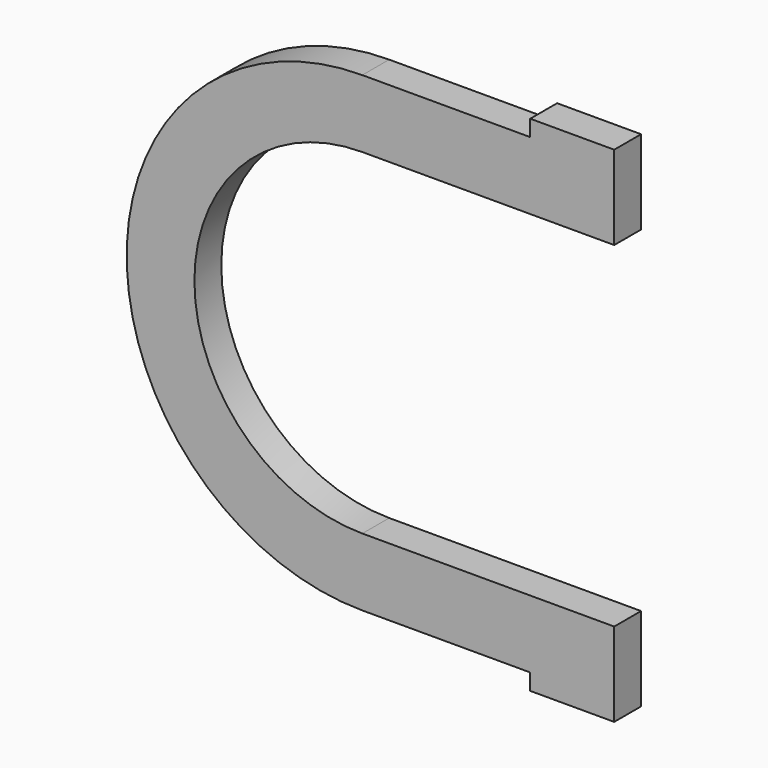
from build123d import *

# Parameters (mm, degrees)
F1_DEPTH = 25.4


with BuildPart() as f1:
    # F0 (on Front) → F1 (new body)
    with BuildSketch(Plane.XZ):
        with BuildLine():
            Line((127, 190.5), (127, 178.223333))
            Line((127, 178.223333), (0, 178.223333))
            ThreePointArc((0, 178.223333), (-178.223333, 0), (0, -178.223333))
            Line((0, -178.223333), (127, -178.223333))
            Line((127, -178.223333), (127, -190.5))
            Line((127, -190.5), (190.5, -190.5))
            Line((190.5, -190.5), (190.5, -178.223333))
            Line((190.5, -178.223333), (190.5, -127))
            Line((190.5, -127), (127, -127))
            Line((127, -127), (0, -127))
            ThreePointArc((0, -127), (-127, 0), (0, 127))
            Line((0, 127), (127, 127))
            Line((127, 127), (190.5, 127))
            Line((190.5, 127), (190.5, 178.223333))
            Line((190.5, 178.223333), (190.5, 190.5))
            Line((190.5, 190.5), (127, 190.5))
        make_face()
    extrude(amount=F1_DEPTH)


solid = f1.part
